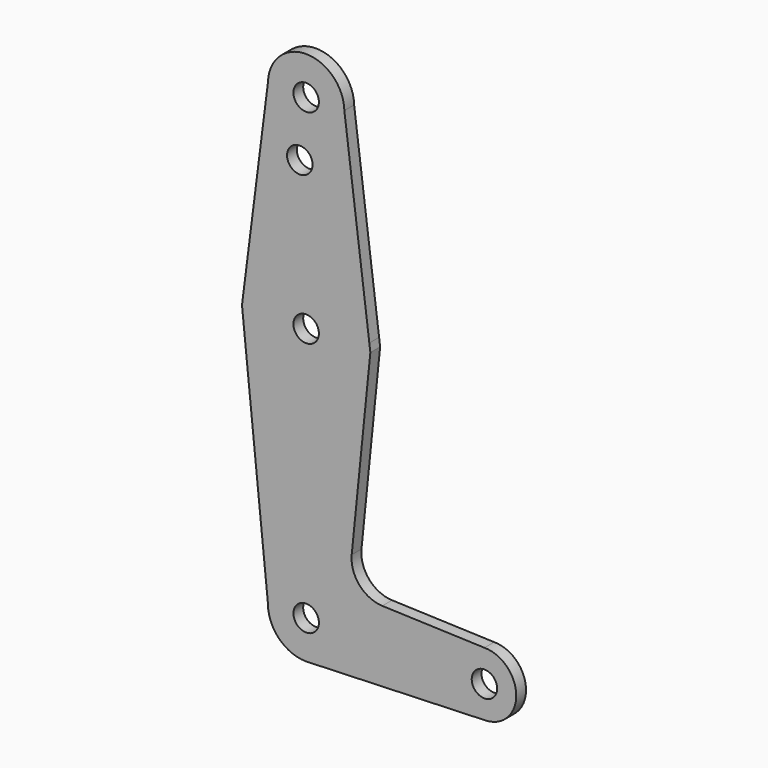
from build123d import *

# Parameters (mm, degrees)
F0_R     = 3.175
F2_DEPTH = 3.048


with BuildPart() as f2:
    # F0 (on Front) → F2 (new body)
    with BuildSketch(Plane.XZ):
        with BuildLine():
            ThreePointArc((-15.7486570455, 1.998856239), (-0.0013239895, 15.8749999448), (15.7483234135, 2.0014831159))
            Line((15.7483234135, 2.0014831159), (9.5232539696, 50.9823700378))
            ThreePointArc((9.5232539696, 50.9823700378), (9.5245634824, 50.891189198), (9.525, 50.8))
            ThreePointArc((9.525, 50.8), (-0.1312778455, 41.2759047082), (-9.5213813391, 51.0625307529))
            Line((-9.5213813391, 51.0625307529), (-15.7486570455, 1.998856239))
        make_face()
        with Locations((-1.5875, 36.5252)):
            Circle(F0_R, mode=Mode.SUBTRACT)
        with BuildLine():
            ThreePointArc((-15.7486570455, 1.998856239), (-1.0014225889, -15.8433827764), (15.875, 0))
            ThreePointArc((15.875, 0), (15.8432992017, 1.002743938), (15.7483234135, 2.0014831159))
            ThreePointArc((15.7483234135, 2.0014831159), (-0.0013239895, 15.8749999448), (-15.7486570455, 1.998856239))
        make_face()
        Circle(F0_R, mode=Mode.SUBTRACT)
        with BuildLine():
            ThreePointArc((15.7483234135, 2.0014831159), (15.8432992017, 1.002743938), (15.875, 0))
            ThreePointArc((15.875, 0), (-1.0014225889, -15.8433827764), (-15.7486570455, 1.998856239))
            Line((-15.7486570455, 1.998856239), (-16.0023565293, 0))
            Line((-16.0023565293, 0), (-9.5248909844, -63.4544287849))
            ThreePointArc((-9.5248909844, -63.4544287849), (0.0227856727, -53.9750272539), (9.525, -63.5))
            Line((9.525, -63.5), (36.5125, -63.5))
            ThreePointArc((36.5125, -63.5), (38.8373399243, -57.8873399243), (44.45, -55.5625))
            Line((44.45, -55.5625), (18.9808968822, -54.6528891744))
            ThreePointArc((18.9808968822, -54.6528891744), (13.2724603328, -51.9326299959), (11.3548873568, -45.906937362))
            Line((11.3548873568, -45.906937362), (16.0026955201, 0))
            Line((16.0026955201, 0), (15.7483234135, 2.0014831159))
        make_face()
        with BuildLine():
            ThreePointArc((9.525, 50.8), (9.5245634824, 50.891189198), (9.5232539696, 50.9823700378))
            ThreePointArc((9.5232539696, 50.9823700378), (0.0400912927, 60.3249156263), (-9.5213813391, 51.0625307529))
            ThreePointArc((-9.5213813391, 51.0625307529), (-0.1312778455, 41.2759047082), (9.525, 50.8))
        make_face()
        with Locations((0, 50.8)):
            Circle(F0_R, mode=Mode.SUBTRACT)
        with BuildLine():
            Line((36.5125, -63.5), (9.525, -63.5))
            ThreePointArc((9.525, -63.5), (6.9705567315, -69.9912990883), (0.6773435479, -73.000885786))
            Line((0.6773435479, -73.000885786), (44.7324052746, -71.4324746146))
            ThreePointArc((44.7324052746, -71.4324746146), (38.9380895153, -69.2116327839), (36.5125, -63.5))
        make_face()
        with BuildLine():
            ThreePointArc((52.3875, -63.5), (50.0626600757, -57.8873399243), (44.45, -55.5625))
            ThreePointArc((44.45, -55.5625), (38.8373399243, -57.8873399243), (36.5125, -63.5))
            ThreePointArc((36.5125, -63.5), (38.9380895153, -69.2116327839), (44.7324052746, -71.4324746146))
            ThreePointArc((44.7324052746, -71.4324746146), (50.1616327839, -69.0119104847), (52.3875, -63.5))
        make_face()
        with BuildLine():
            ThreePointArc((47.625, -63.5), (44.45, -66.675), (41.275, -63.5))
            ThreePointArc((41.275, -63.5), (44.45, -60.325), (47.625, -63.5))
        make_face(mode=Mode.SUBTRACT)
        with BuildLine():
            ThreePointArc((9.525, -63.5), (0.0227856727, -53.9750272539), (-9.5248909844, -63.4544287849))
            ThreePointArc((-9.5248909844, -63.4544287849), (-6.7512847231, -70.2190609157), (0, -73.025))
            Line((0, -73.025), (0.6773435479, -73.000885786))
            ThreePointArc((0.6773435479, -73.000885786), (6.9705567315, -69.9912990883), (9.525, -63.5))
        make_face()
        with Locations((0, -63.5)):
            Circle(F0_R, mode=Mode.SUBTRACT)
        with BuildLine():
            Line((0.6773435479, -73.000885786), (0, -73.025))
            ThreePointArc((0, -73.025), (0.3388863295, -73.0189695375), (0.6773435479, -73.000885786))
        make_face()
    extrude(amount=F2_DEPTH)


solid = f2.part
